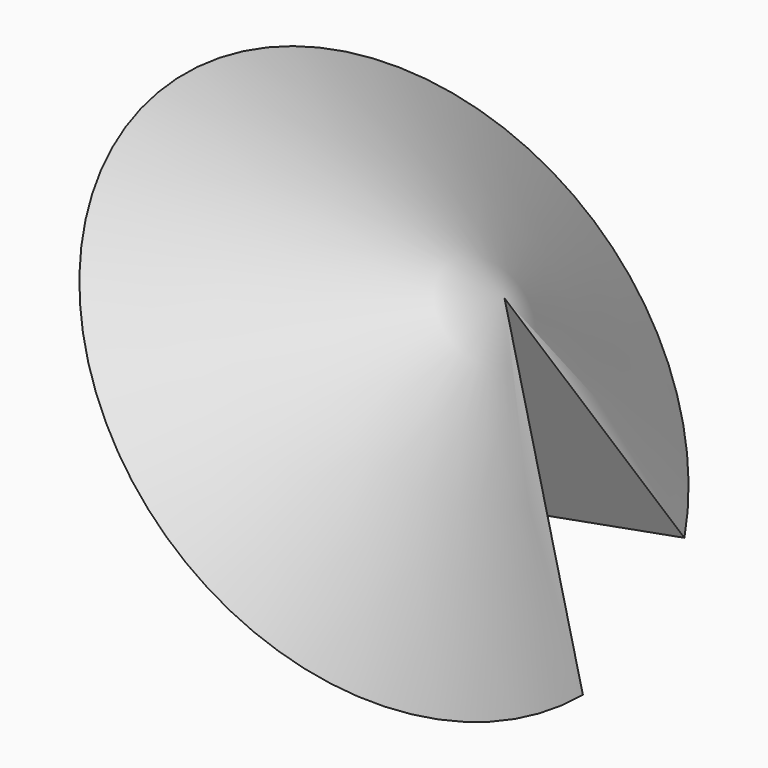
from build123d import *

# Parameters (mm, degrees)
F1_ANGLE = 320.2451613994


with BuildPart() as f1:
    # F0 (on Front) → F1 (revolve)
    with BuildSketch(Plane.XZ):
        Polygon((20.6987785704, 70.3412673971), (-71.2667137855, -17.2449656293), (50.5679352151, -53.0963017678), align=None)
    revolve(axis=Axis((-25.2839676075, 0, 26.5481508839), (-0.7241377351, 0, -0.6896553782)), revolution_arc=F1_ANGLE)


solid = f1.part
